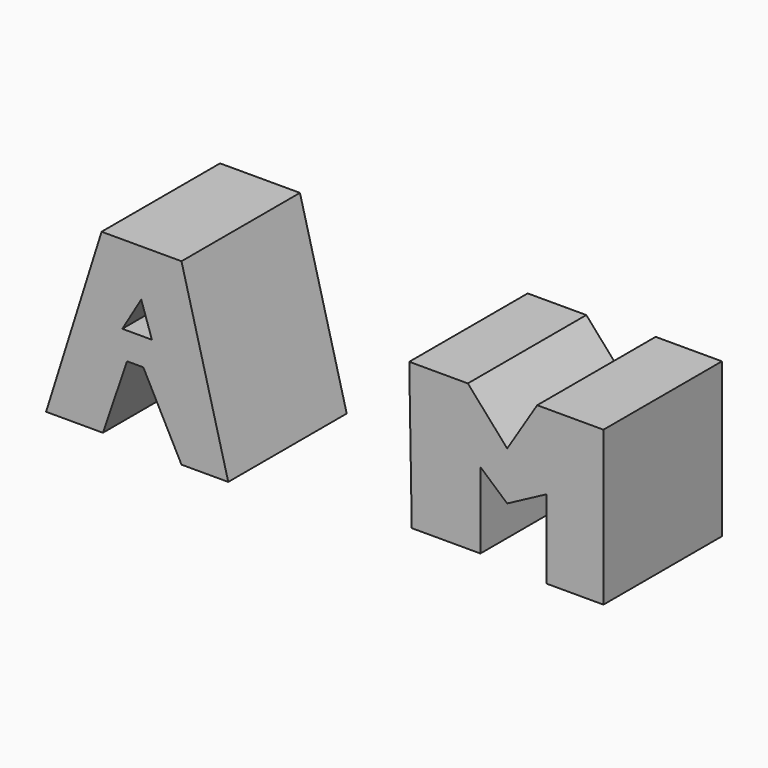
from build123d import *

# Parameters (mm, degrees)
F1_DEPTH = 25.4
F3_DEPTH = 25.4


with BuildPart() as f1:
    # F0 (on Front) → F1 (new body)
    with BuildSketch(Plane.XZ):
        Polygon((-30.205715, 44.7735), (-43.913011, 44.7735), (-53.432507, 14.484201), (-43.685095, 14.484201), (-39.546985, 26.630949), (-36.754335, 26.630949), (-30.205715, 14.053356), (-22.184789, 14.053356), align=None)
        Polygon((-37.110131, 36.75219), (-35.282493, 31.269275), (-40.35927, 31.269275), align=None, mode=Mode.SUBTRACT)
    extrude(amount=F1_DEPTH)


with BuildPart() as f3:
    # F2 (on Front) → F3 (new body)
    with BuildSketch(Plane.XZ):
        Polygon((18.912766, 42.298142), (8.861261, 42.298142), (9.292042, 17.312972), (21.06666, 17.312972), (21.06666, 30.379927), (25.661636, 26.359325), (32.410506, 29.949149), (32.410506, 16.451415), (42.174824, 16.451415), (42.174824, 42.872511), (30.807515, 42.872511), (25.661636, 34.663611), align=None)
    extrude(amount=F3_DEPTH)


solid = Compound([f1.part, f3.part])
